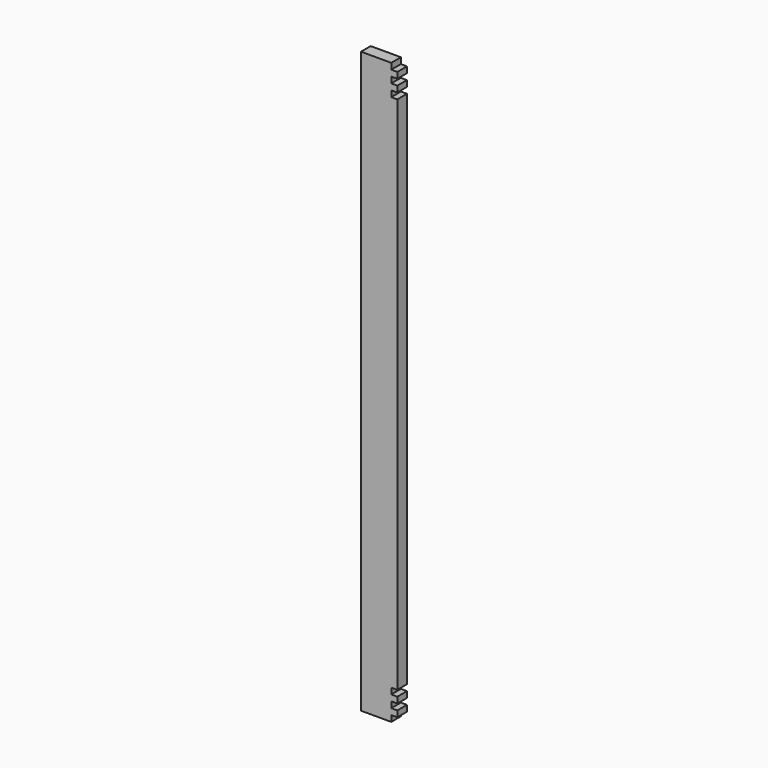
from build123d import *

# Parameters (mm, degrees)
F0_W     = 57.15
F0_H     = 914.4
F1_DEPTH = 19.05
F2_W     = 9.525
F2_H     = 9.525
F3_DEPTH = 19.051


with BuildPart() as f1:
    # F0 (on Front) → F1 (new body)
    with BuildSketch(Plane.XZ):
        with Locations((28.575, 457.2)):
            Rectangle(F0_W, F0_H)
    extrude(amount=F1_DEPTH)

    # F2 (on face) → F3 (cut, through all)
    with BuildSketch(Plane.XZ.offset(19.05)):
        with Locations((52.3875, 909.6375)):
            Rectangle(F2_W, F2_H)
        with Locations((52.3875, 890.5875)):
            Rectangle(F2_W, F2_H)
        with Locations((52.3875, 871.5375)):
            Rectangle(F2_W, F2_H)
        with Locations((52.3875, 42.8625)):
            Rectangle(F2_W, F2_H)
        with Locations((52.3875, 23.8125)):
            Rectangle(F2_W, F2_H)
        with Locations((52.3875, 4.7625)):
            Rectangle(F2_W, F2_H)
    extrude(amount=-F3_DEPTH, mode=Mode.SUBTRACT)


solid = f1.part
